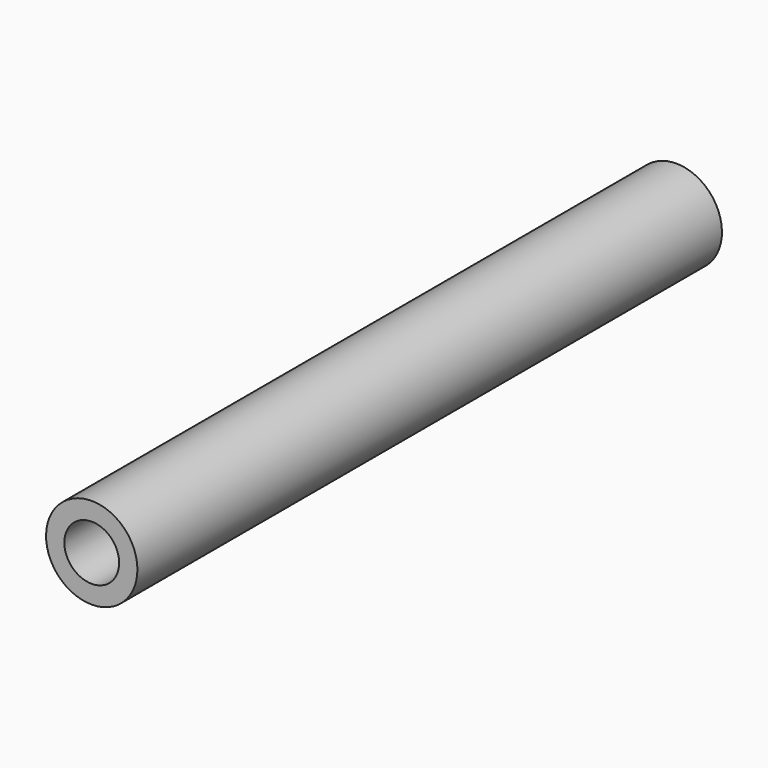
from build123d import *

# Parameters (mm, degrees)
CYLINDER001_R           = 1.5
CYLINDER001_DEPTH       = 44
CYLINDER001_PITCH_ANGLE = 90
CYLINDER_R              = 2.5
CYLINDER_DEPTH          = 40
CYLINDER_PITCH_ANGLE    = 90
CUT006_PLACEMENT_ANGLE  = 90


with BuildPart() as cilindro001:
    # Cylinder001 → Cylinder001 (new body)
    with BuildSketch(Plane.XY):
        Circle(CYLINDER001_R)
    extrude(amount=CYLINDER001_DEPTH)


with BuildPart() as cilindro001_1:
    # Cylinder001 pitch: moved
    add(cilindro001.part.rotate(Axis((0, 0, 0), (0, 1, 0)), CYLINDER001_PITCH_ANGLE))


with BuildPart() as cilindro001_2:
    # Cylinder001 placement: moved
    add(cilindro001_1.part.moved(Location((-2, 0, 0))))


with BuildPart() as soporte007:
    # Cylinder → Cylinder (new body)
    with BuildSketch(Plane.XY):
        Circle(CYLINDER_R)
    extrude(amount=CYLINDER_DEPTH)


with BuildPart() as soporte007_1:
    # Cylinder pitch: moved
    add(soporte007.part.rotate(Axis((0, 0, 0), (0, 1, 0)), CYLINDER_PITCH_ANGLE))


with BuildPart() as soporte007_2:
    # Cylinder placement: moved
    add(soporte007_1.part)

    # Cut006: cut Cilindro001
    add(cilindro001_2.part, mode=Mode.SUBTRACT)


with BuildPart() as soporte007_3:
    # Cut006 placement: moved
    add(soporte007_2.part.moved(Location((45, 235, 311))).rotate(Axis((45, 235, 311), (0, 0, 1)), CUT006_PLACEMENT_ANGLE))


solid = soporte007_3.part
